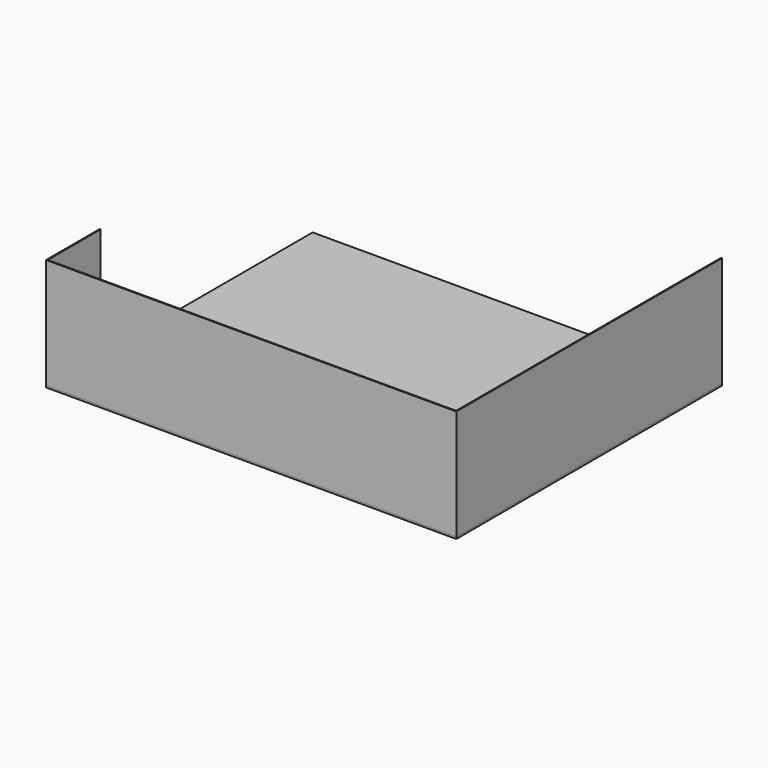
from build123d import *

# Parameters (mm, degrees)
F2_W     = 25.4
F2_H     = 1828.8
F3_DEPTH = 50.8
F4_DEPTH = 3048


with BuildPart() as f3:
    # F2 (on Top) → F3 (new body)
    with BuildSketch(Plane.XY):
        Polygon((5638.8, 4572), (5638.8, -4572), (5638.8, -4597.4), (5664.2, -4597.4), (5664.2, 4572), align=None)
        Polygon((5638.8, -4597.4), (5638.8, -4572), (-5638.8, -4572), (-5664.2, -4572), (-5664.2, -4597.4), align=None)
        Polygon((-5638.8, -4572), (5638.8, -4572), (5638.8, 4572), (-5638.8, 4572), (-5638.8, -2743.2), align=None)
        with Locations((-5651.5, -3657.6)):
            Rectangle(F2_W, F2_H)
    extrude(amount=-F3_DEPTH)


with BuildPart() as f4:
    # F2 (on Top) → F4 (new body)
    with BuildSketch(Plane.XY):
        Polygon((5638.8, -4597.4), (5638.8, -4572), (-5638.8, -4572), (-5664.2, -4572), (-5664.2, -4597.4), align=None)
        with Locations((-5651.5, -3657.6)):
            Rectangle(F2_W, F2_H)
        Polygon((5638.8, 4572), (5638.8, -4572), (5638.8, -4597.4), (5664.2, -4597.4), (5664.2, 4572), align=None)
    extrude(amount=F4_DEPTH)


solid = Compound([f3.part, f4.part])
